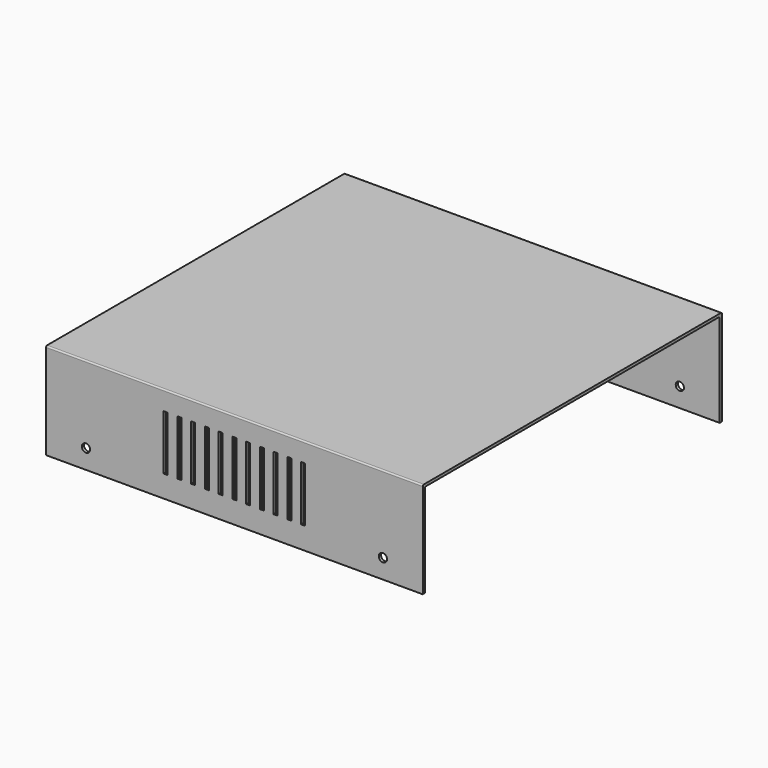
from build123d import *

# Parameters (mm, degrees)
F0_W     = 137
F0_H     = 134
F1_DEPTH = 1
F2_W     = 137
F2_H     = 1
F3_DEPTH = 35
F4_R     = 1.5
F4_W     = 1.5
F4_H     = 20
F5_DEPTH = 136.001
F6_R     = 0.5


with BuildPart() as f1:
    # F0 (on Top) → F1 (new body)
    with BuildSketch(Plane.XY):
        Rectangle(F0_W, F0_H)
    extrude(amount=F1_DEPTH)

    # F2 (on face) → F3 (join)
    with BuildSketch(Plane.XY.offset(1)):
        with Locations((0, -67.5)):
            Rectangle(F2_W, F2_H)
        with Locations((0, 67.5)):
            Rectangle(F2_W, F2_H)
    extrude(amount=-F3_DEPTH)

    # F4 (on face) → F5 (cut, through all)
    with BuildSketch(Plane.XZ.offset(68)):
        with Locations((-54, -27)):
            Circle(F4_R)
        with Locations((54, -27)):
            Circle(F4_R)
        with Locations((-25, -16)):
            Rectangle(F4_W, F4_H)
        with Locations((-20, -16)):
            Rectangle(F4_W, F4_H)
        with Locations((-15, -16)):
            Rectangle(F4_W, F4_H)
        with Locations((-10, -16)):
            Rectangle(F4_W, F4_H)
        with Locations((-5, -16)):
            Rectangle(F4_W, F4_H)
        with Locations((0, -16)):
            Rectangle(F4_W, F4_H)
        with Locations((5, -16)):
            Rectangle(F4_W, F4_H)
        with Locations((10, -16)):
            Rectangle(F4_W, F4_H)
        with Locations((15, -16)):
            Rectangle(F4_W, F4_H)
        with Locations((20, -16)):
            Rectangle(F4_W, F4_H)
        with Locations((25, -16)):
            Rectangle(F4_W, F4_H)
    extrude(amount=-F5_DEPTH, mode=Mode.SUBTRACT)

    # F6
    f6_edges = [f1.edges().sort_by_distance(p)[0] for p in [
        (0, -68, 1),
        (0, 68, 1),
        (0, -67, 0),
        (0, 67, 0),
    ]]
    fillet(f6_edges, radius=F6_R)


solid = f1.part
